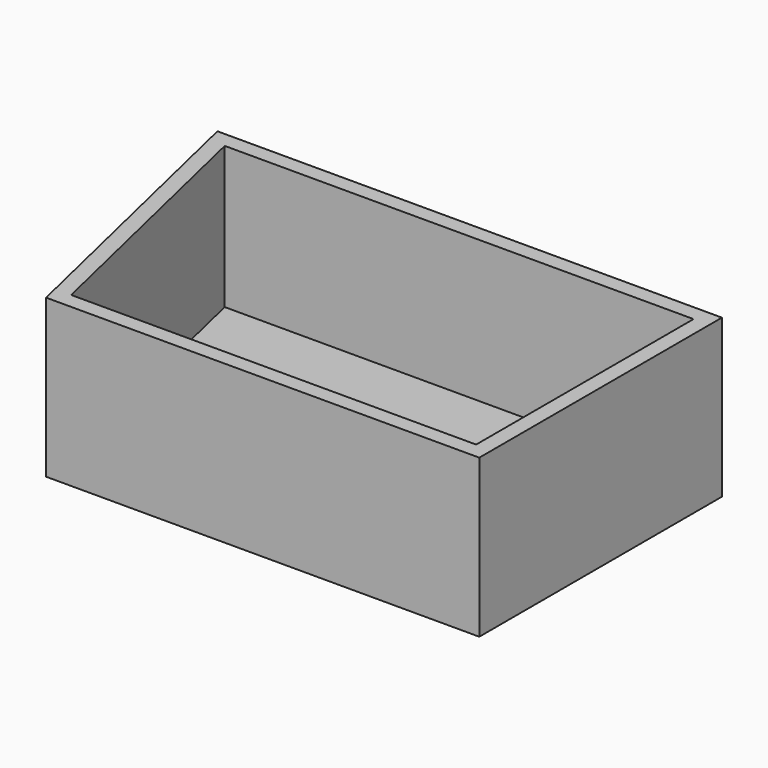
from build123d import *

# Parameters (mm, degrees)
F1_DEPTH = 25
F2_T     = -2.5


with BuildPart() as f1:
    # F0 (on Top) → F1 (new body)
    with BuildSketch(Plane.XY):
        Polygon((36.507031, 48.091673), (-43.492969, 48.091673), (-32.188456, 0), (36.507031, 0), align=None)
    extrude(amount=F1_DEPTH)

    # F2
    f2_openings = [f1.faces().sort_by_distance(p)[0] for p in [
        (-0.738459, 24.655195, 25),
    ]]
    offset(amount=F2_T, openings=f2_openings)


solid = f1.part
